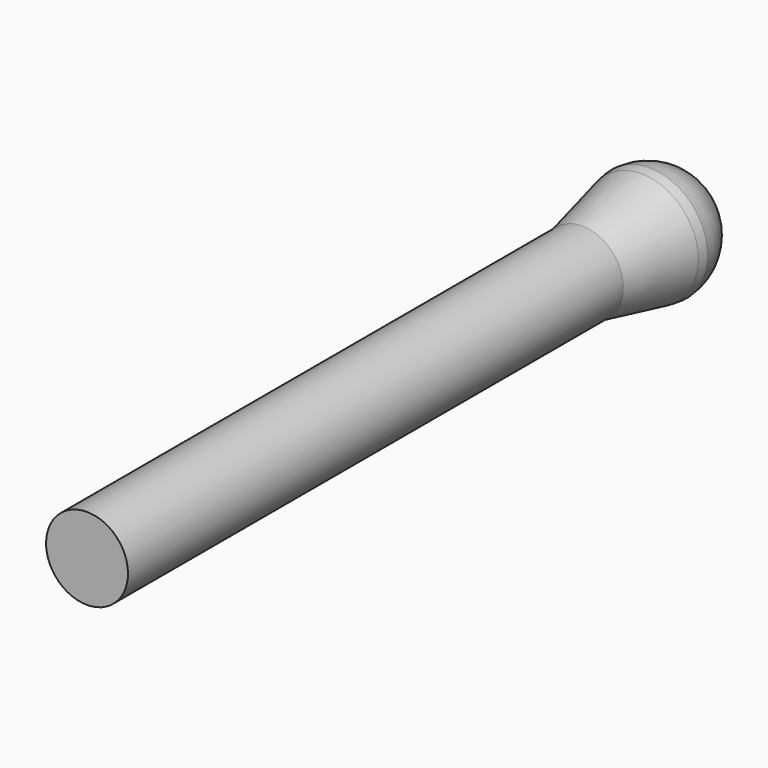
from build123d import *

# Parameters (mm, degrees)
F1_W = 168.91
F1_H = 11.176


with BuildPart() as f2:
    # F1 (on Right) → F2 (revolve)
    with BuildSketch(Plane.YZ):
        with Locations((-107.315, -5.588)):
            Rectangle(F1_W, F1_H)
        with BuildLine():
            Line((-22.86, 0), (-22.86, -11.176))
            Line((-22.86, -11.176), (-2.706905, -15.529936))
            ThreePointArc((-2.706905, -15.529936), (-1.360874, -15.760689), (0, -15.875))
            ThreePointArc((0, -15.875), (10.789206, -10.979938), (15.24, 0))
            Line((15.24, 0), (-22.86, 0))
        make_face()
    revolve(axis=Axis((0, -107.315, 0), (0, -1, 0)))


solid = f2.part
